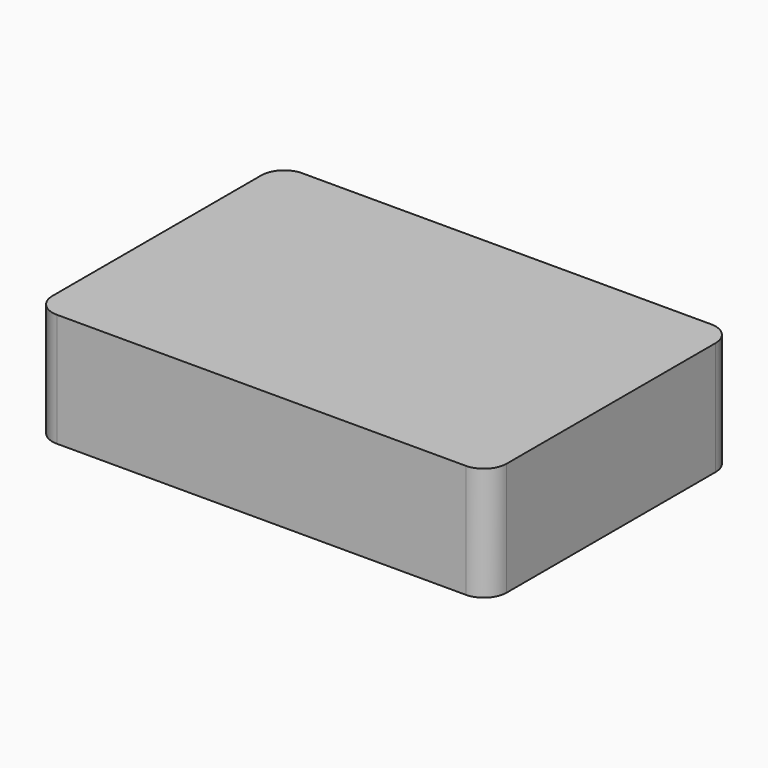
from build123d import *

# Parameters (mm, degrees)
F0_W     = 40
F0_H     = 27
F0_R     = 7.5
F1_DEPTH = 10
F2_DEPTH = 2
F3_R     = 2


with BuildPart() as f1:
    # F0 (on Top) → F1 (new body)
    with BuildSketch(Plane.XY):
        Rectangle(F0_W, F0_H)
        Circle(F0_R, mode=Mode.SUBTRACT)
        Circle(F0_R)
    extrude(amount=F1_DEPTH)

    # F0 (on Top) → F2 (cut)
    with BuildSketch(Plane.XY):
        Circle(F0_R)
    extrude(amount=F2_DEPTH, mode=Mode.SUBTRACT)

    # F3
    f3_edges = [f1.edges().sort_by_distance(p)[0] for p in [
        (20, -13.5, 5),
        (20, 13.5, 5),
        (-20, 13.5, 5),
        (-20, -13.5, 5),
    ]]
    fillet(f3_edges, radius=F3_R)


solid = f1.part
